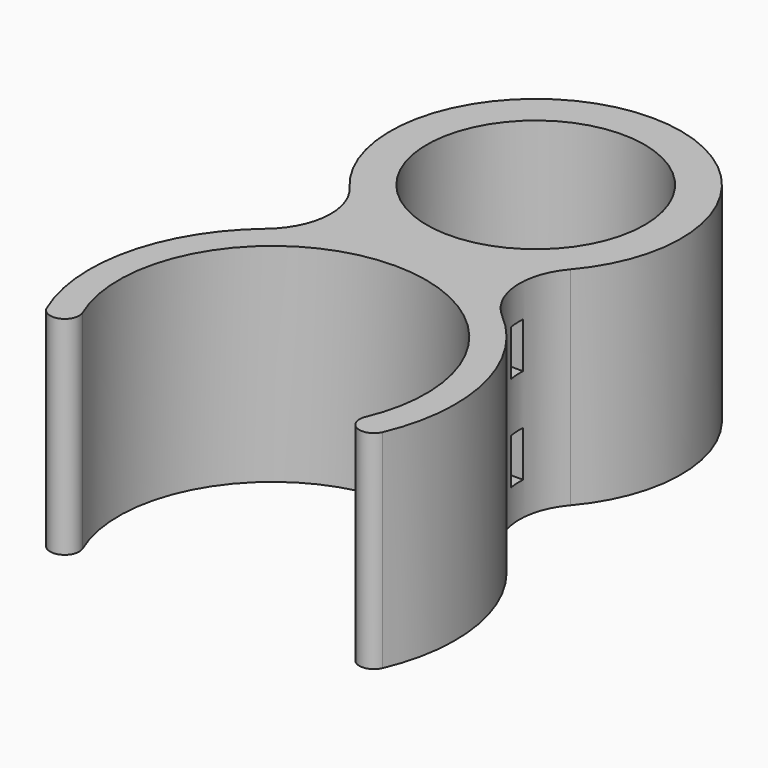
from build123d import *

# Parameters (mm, degrees)
SKETCH_R          = 13.1
PAD_DEPTH         = 25
SKETCH001_W       = 2
SKETCH001_H       = 5.5
POCKET_DEPTH      = 22.001
POCKET_DEPTH_BACK = 22.001


with BuildPart() as part:
    # Sketch → Pad (new body)
    with BuildSketch(Plane.XY):
        with BuildLine():
            ThreePointArc((17, -25.79726), (0, 0), (-17, -25.79726))
            ThreePointArc((-20.216216, -27.177822), (-17.917827, -28.095649), (-17, -25.79726))
            ThreePointArc((-14.206112, -1.701596), (-21.412232, -13.448634), (-20.216216, -27.177822))
            ThreePointArc((-14.206112, -1.701596), (-11.372558, 3.815069), (-13.288911, 9.713392))
            ThreePointArc((13.288911, 9.713392), (0, 38.6), (-13.288911, 9.713392))
            ThreePointArc((13.288911, 9.713392), (11.372558, 3.815069), (14.206112, -1.701596))
            ThreePointArc((20.216216, -27.177822), (21.412232, -13.448634), (14.206112, -1.701596))
            ThreePointArc((17, -25.79726), (17.917827, -28.095649), (20.216216, -27.177822))
        make_face()
        with Locations((0, 21.1)):
            Circle(SKETCH_R, mode=Mode.SUBTRACT)
    extrude(amount=PAD_DEPTH)

    # Sketch001 → Pocket (cut, two sides)
    with BuildSketch(Plane.YZ) as pocket_sk:
        with Locations((4, 6.75)):
            Rectangle(SKETCH001_W, SKETCH001_H)
        with Locations((4, 18.25)):
            Rectangle(SKETCH001_W, SKETCH001_H)
    extrude(amount=-POCKET_DEPTH, mode=Mode.SUBTRACT)
    extrude(pocket_sk.sketch, amount=POCKET_DEPTH_BACK, mode=Mode.SUBTRACT)


solid = part.part
